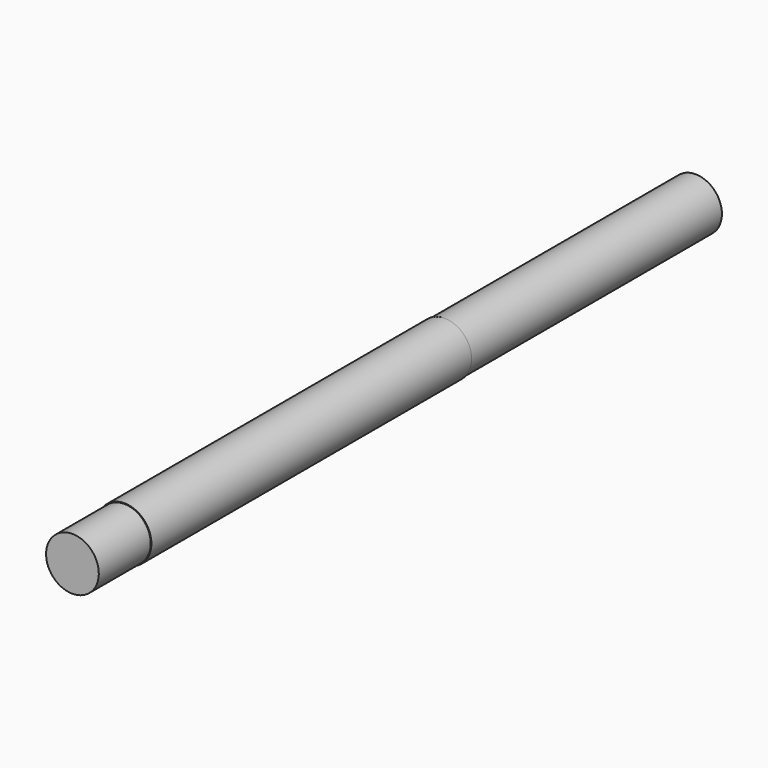
from build123d import *

# Parameters (mm, degrees)
F3_DEPTH = 546.1
F4_DEPTH = 546.1


with BuildPart() as f1:
    # F0 (on Right) → F1 (revolve)
    with BuildSketch(Plane.YZ):
        Polygon((-1828.8, 0), (0, 0), (0, 61.9125), (-736.6, 61.9125), (-736.6, 63.5), (-1676.4, 63.5), (-1676.4, 61.9125), (-1828.8, 61.9125), align=None)
    revolve(axis=Axis((0, 13.9595033184, 0), (0, 1, 0)))

    # F2 (on face) → F3 (cut)
    with BuildSketch(Plane(origin=(0, -736.6, 0), x_dir=(-1, 0, 0), z_dir=(0, 1, 0))):
        with BuildLine():
            Line((60.5959376217, 12.7), (57.15, 12.7))
            Line((57.15, 12.7), (57.15, -12.7))
            Line((57.15, -12.7), (60.5959376217, -12.7))
            ThreePointArc((60.5959376217, -12.7), (61.5824798309, -6.3840296149), (61.9125, 0))
            ThreePointArc((61.9125, 0), (61.5824798309, 6.3840296149), (60.5959376217, 12.7))
        make_face()
        with BuildLine():
            Line((62.2170394667, 12.7), (60.5959376217, 12.7))
            ThreePointArc((60.5959376217, 12.7), (61.5824798309, 6.3840296149), (61.9125, 0))
            ThreePointArc((61.9125, 0), (61.5824798309, -6.3840296149), (60.5959376217, -12.7))
            Line((60.5959376217, -12.7), (62.2170394667, -12.7))
            ThreePointArc((62.2170394667, -12.7), (63.1784457158, -6.3823190873), (63.5, 0))
            ThreePointArc((63.5, 0), (63.1784457158, 6.3823190873), (62.2170394667, 12.7))
        make_face()
        with BuildLine():
            Line((66.675, 12.7), (62.2170394667, 12.7))
            ThreePointArc((62.2170394667, 12.7), (63.1784457158, 6.3823190873), (63.5, 0))
            ThreePointArc((63.5, 0), (63.1784457158, -6.3823190873), (62.2170394667, -12.7))
            Line((62.2170394667, -12.7), (66.675, -12.7))
            Line((66.675, -12.7), (66.675, 12.7))
        make_face()
    extrude(amount=F3_DEPTH, mode=Mode.SUBTRACT)


with BuildPart() as f4:
    # F2 (on face) → F4 (new body)
    with BuildSketch(Plane(origin=(0, -736.6, 0), x_dir=(-1, 0, 0), z_dir=(0, 1, 0))):
        with BuildLine():
            Line((66.675, 12.7), (62.2170394667, 12.7))
            ThreePointArc((62.2170394667, 12.7), (63.1784457158, 6.3823190873), (63.5, 0))
            ThreePointArc((63.5, 0), (63.1784457158, -6.3823190873), (62.2170394667, -12.7))
            Line((62.2170394667, -12.7), (66.675, -12.7))
            Line((66.675, -12.7), (66.675, 12.7))
        make_face()
        with BuildLine():
            Line((60.5959376217, 12.7), (57.15, 12.7))
            Line((57.15, 12.7), (57.15, -12.7))
            Line((57.15, -12.7), (60.5959376217, -12.7))
            ThreePointArc((60.5959376217, -12.7), (61.5824798309, -6.3840296149), (61.9125, 0))
            ThreePointArc((61.9125, 0), (61.5824798309, 6.3840296149), (60.5959376217, 12.7))
        make_face()
        with BuildLine():
            Line((62.2170394667, 12.7), (60.5959376217, 12.7))
            ThreePointArc((60.5959376217, 12.7), (61.5824798309, 6.3840296149), (61.9125, 0))
            ThreePointArc((61.9125, 0), (61.5824798309, -6.3840296149), (60.5959376217, -12.7))
            Line((60.5959376217, -12.7), (62.2170394667, -12.7))
            ThreePointArc((62.2170394667, -12.7), (63.1784457158, -6.3823190873), (63.5, 0))
            ThreePointArc((63.5, 0), (63.1784457158, 6.3823190873), (62.2170394667, 12.7))
        make_face()
    extrude(amount=F4_DEPTH)


solid = Compound([f1.part, f4.part])
